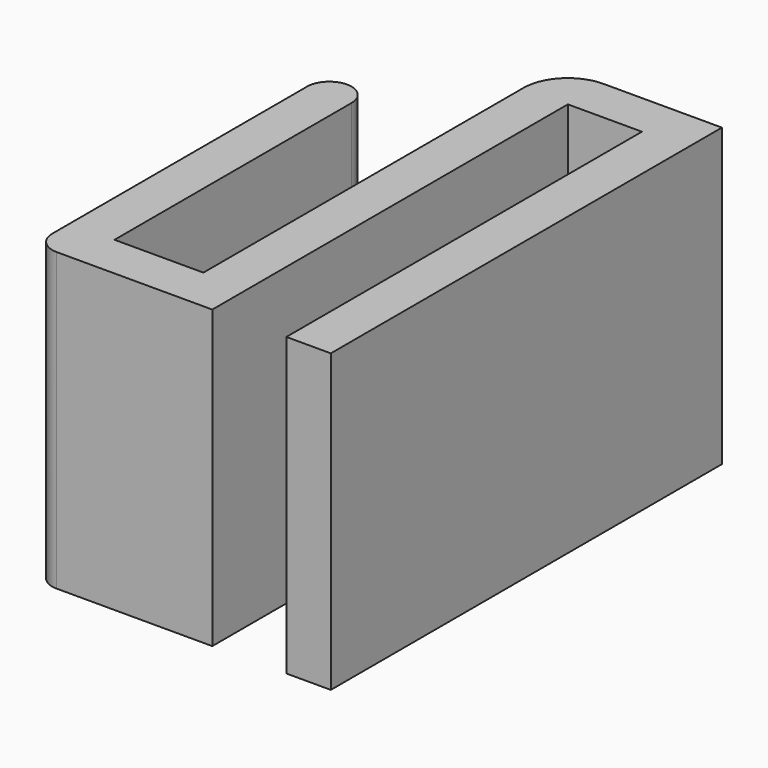
from build123d import *

# Parameters (mm, degrees)
PAD_DEPTH = 20


with BuildPart() as part:
    # Sketch → Pad (new body)
    with BuildSketch(Plane.XY):
        with BuildLine():
            Line((0, 0), (0, 30))
            Line((0, 30), (-5, 30))
            Line((-5, 30), (-5, 0))
            Line((-15.5, 0), (-5, 0))
            ThreePointArc((-17, 1.5), (-16.56066, 0.43934), (-15.5, 0))
            Line((-17, 1.5), (-17, 23))
            ThreePointArc((-14, 23), (-15.5, 24.5), (-17, 23))
            Line((-14, 3), (-14, 23))
            Line((-8, 3), (-14, 3))
            Line((-8, 30), (-8, 3))
            ThreePointArc((-5, 33), (-7.12132, 32.12132), (-8, 30))
            Line((3, 33), (-5, 33))
            Line((3, 0), (3, 33))
            Line((0, 0), (3, 0))
        make_face()
    extrude(amount=PAD_DEPTH)


solid = part.part
